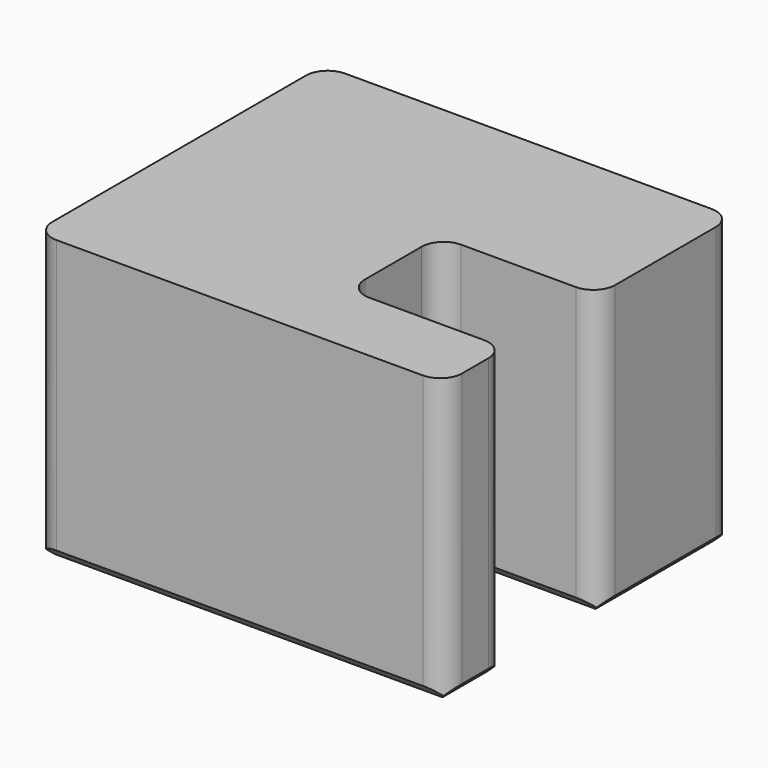
from build123d import *

# Parameters (mm, degrees)
PAD_DEPTH    = 52
CHAMFER_SIZE = 2
FILLET_R     = 4


with BuildPart() as part:
    # Sketch → Pad (new body)
    with BuildSketch(Plane.XY):
        Polygon((0, 0), (75, 0), (75, -31), (46, -31), (46, -52), (75, -52), (75, -66), (0, -66), align=None)
    extrude(amount=PAD_DEPTH)

    # Chamfer
    chamfer_edges = [part.edges().sort_by_distance(p)[0] for p in [
        (37.5, 0, 0),
        (75, -15.5, 0),
        (60.5, -31, 0),
        (46, -41.5, 0),
        (60.5, -52, 0),
        (75, -59, 0),
        (37.5, -66, 0),
        (0, -33, 0),
    ]]
    chamfer(chamfer_edges, length=CHAMFER_SIZE)

    # Fillet
    fillet_edges = [part.edges().sort_by_distance(p)[0] for p in [
        (0, -66, 27),
        (75, -66, 27),
        (75, -52, 27),
        (75, -31, 27),
        (75, 0, 27),
        (46, -52, 27),
        (46, -31, 27),
        (0, 0, 27),
    ]]
    fillet(fillet_edges, radius=FILLET_R)


solid = part.part
